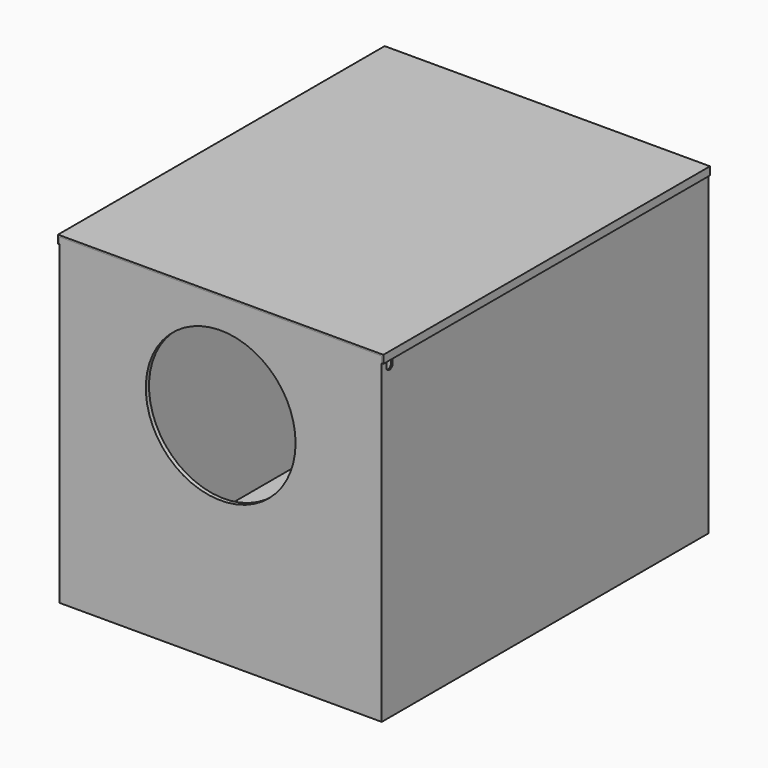
from build123d import *

# Parameters (mm, degrees)
F1_DEPTH  = 500
F2_W      = 400
F2_H      = 400
F3_DEPTH  = 5
F4_R      = 93
F5_DEPTH  = 5
F7_DEPTH  = 2
F8_W      = 400
F8_H      = 400
F9_DEPTH  = 2
F10_W     = 240
F10_H     = 240
F11_DEPTH = 2
F13_DEPTH = 507


with BuildPart() as f1:
    # F0 (on Front) → F1 (new body)
    with BuildSketch(Plane.XZ):
        Polygon((-200, 0), (200, 0), (200, 400), (198, 400), (198, 2), (-198, 2), (-198, 400), (-200, 400), align=None)
    extrude(amount=-F1_DEPTH)

    # F2 (on face) → F3 (join)
    with BuildSketch(Plane.XZ):
        with Locations((0, 200)):
            Rectangle(F2_W, F2_H)
    extrude(amount=F3_DEPTH)

    # F4 (on face) → F5 (cut, through all)
    with BuildSketch(Plane.XZ.offset(5)):
        with Locations((0, 270)):
            Circle(F4_R)
    extrude(amount=-F5_DEPTH, mode=Mode.SUBTRACT)

    # F6 (on face) → F7 (cut, through all)
    with BuildSketch(Plane.YZ.offset(200)):
        with BuildLine():
            Line((12, 400), (2, 400))
            Line((2, 400), (2, 385))
            ThreePointArc((2, 385), (3.4644660941, 381.4644660941), (7, 380))
            ThreePointArc((7, 380), (10.5355339059, 381.4644660941), (12, 385))
            Line((12, 385), (12, 400))
        make_face()
    extrude(amount=-F7_DEPTH, mode=Mode.SUBTRACT)

    # F8 (on face) → F9 (join)
    with BuildSketch(Plane(origin=(0, 500, 0), x_dir=(-1, 0, 0), z_dir=(0, 1, 0))):
        with Locations((0, 200)):
            Rectangle(F8_W, F8_H)
    extrude(amount=F9_DEPTH)

    # F10 (on face) → F11 (cut, through all)
    with BuildSketch(Plane(origin=(0, 502, 0), x_dir=(-1, 0, 0), z_dir=(0, 1, 0))):
        with Locations((0, 180)):
            Rectangle(F10_W, F10_H)
    extrude(amount=-F11_DEPTH, mode=Mode.SUBTRACT)


with BuildPart() as f13:
    # F12 (on face) → F13 (new body, through all)
    with BuildSketch(Plane.XZ.offset(5)):
        Polygon((-200, 392), (-200, 400), (200, 400), (200, 392), (202, 392), (202, 402), (-202, 402), (-202, 392), align=None)
    extrude(amount=-F13_DEPTH)


solid = Compound([f1.part, f13.part])
